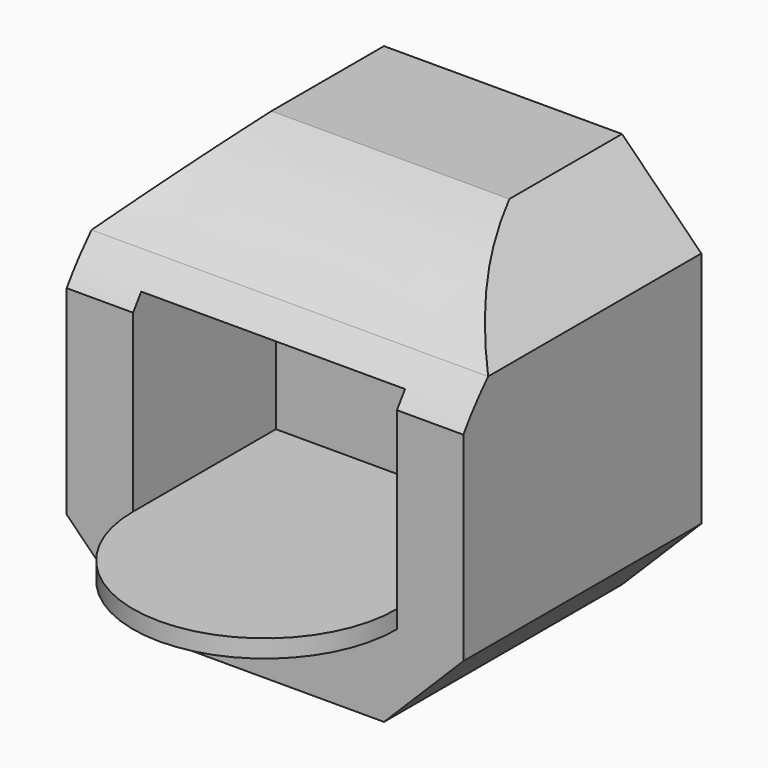
from build123d import *

# Parameters (mm, degrees)
F0_W     = 200
F0_H     = 200
F1_DEPTH = 75
F2_SIZE  = 40
F3_W     = 133.0324709415
F3_H     = 95.5820605159
F4_DEPTH = 90
F6_DEPTH = 200.9
F8_DEPTH = 9


with BuildPart() as f1:
    # F0 (on Front) → F1 (new body, symmetric)
    with BuildSketch(Plane.XZ):
        Rectangle(F0_W, F0_H)
    extrude(amount=F1_DEPTH, both=True)

    # F2
    f2_edges = [f1.edges().sort_by_distance(p)[0] for p in [
        (100, 0, 100),
        (-100, 0, 100),
        (-100, 0, -100),
        (100, 0, -100),
    ]]
    chamfer(f2_edges, length=F2_SIZE)

    # F3 (on face) → F4 (cut)
    with BuildSketch(Plane.XZ.offset(75)):
        Rectangle(F3_W, F3_H)
    extrude(amount=-F4_DEPTH, mode=Mode.SUBTRACT)

    # F5 (on face) → F6 (cut)
    with BuildSketch(Plane.YZ.offset(100)):
        with BuildLine():
            Line((-95.2423661947, -20.9655482322), (-87.9932567477, -22.9425765574))
            add(Edge.make_bspline(
                [(-87.9932567477, -22.9425765574), (-88.9180534775, -7.4435947272), (-90.1399220102, 13.0341141319), (-78.4659039791, 35.1732019961), (-75, 40.5114376133)],
                knots=[0, 0, 0, 0, 0.2716788235, 0.3589500209, 0.3589500209, 0.3589500209, 0.3589500209], degree=3))
            Line((-75, 40.5114376133), (-75, 60))
            Line((-75, 60), (-59.3654634192, 60))
            add(Edge.make_bspline(
                [(-59.3654634192, 60), (-50.780700635, 68.9119189144), (-16.3848726556, 97.0242933868), (26.186759324, 107.4256565423), (56.3297905028, 114.7903874516)],
                knots=[0.4677889294, 0.4677889294, 0.4677889294, 0.4677889294, 0.6231656117, 1, 1, 1, 1], degree=3))
            Line((56.3297905028, 114.7903874516), (-23.4103426337, 159.6030145884))
            Line((-23.4103426337, 159.6030145884), (-86.6752415895, 159.6030145884))
            Line((-86.6752415895, 159.6030145884), (-134.7829252481, 0))
            Line((-134.7829252481, 0), (-95.2423661947, -20.9655482322))
        make_face()
        with BuildLine():
            Line((-75, 60), (-75, 40.5114376133))
            add(Edge.make_bspline(
                [(-75, 40.5114376133), (-70.6775520716, 47.1689346541), (-65.3789539733, 53.7573417509), (-59.3654634192, 60)],
                knots=[0.3589500209, 0.3589500209, 0.3589500209, 0.3589500209, 0.4677889294, 0.4677889294, 0.4677889294, 0.4677889294], degree=3))
            Line((-59.3654634192, 60), (-75, 60))
        make_face()
    extrude(amount=-F6_DEPTH, mode=Mode.SUBTRACT)

    # F7 (on face) → F8 (join)
    with BuildSketch(Plane.XY.offset(-47.7910302579)):
        with BuildLine():
            Line((66.5162354708, -75), (-66.5162354708, -75))
            ThreePointArc((-66.5162354708, -75), (0, -141.5162354708), (66.5162354708, -75))
        make_face()
    extrude(amount=-F8_DEPTH)


solid = f1.part
